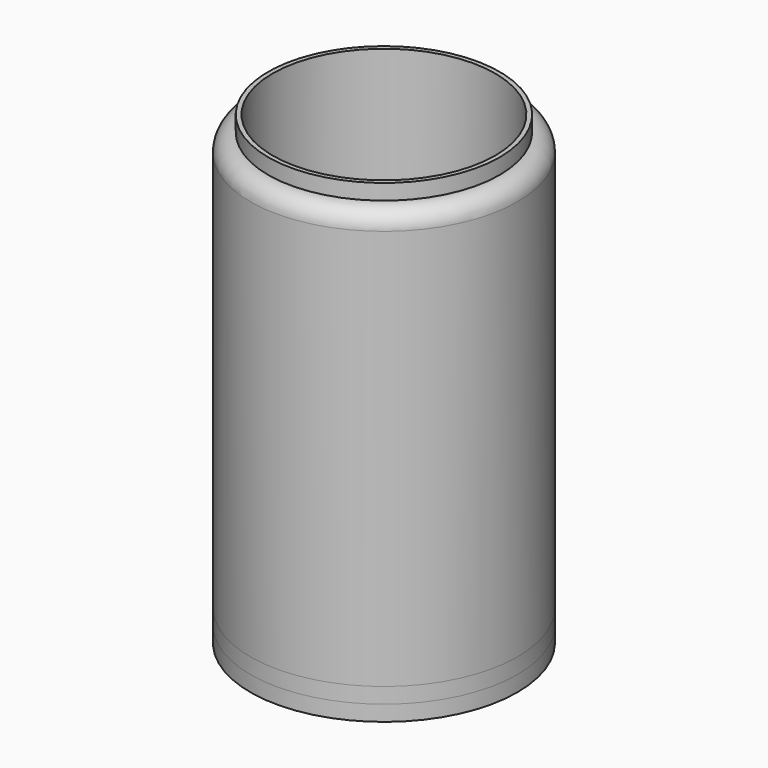
from build123d import *

# Parameters (mm, degrees)
F0_R         = 38.1
F0_R_2       = 31.75
F1_DEPTH     = 123.825
F2_R         = 5.08
F3_R         = 38.1
F3_R_2       = 31.75
F1_FACE_R    = 38.1
F1_FACE_R_2  = 31.75
F1_FACE1_R   = 33.02
F1_FACE1_R_2 = 31.75
F4_DEPTH     = 4.445


with BuildPart() as f1:
    # F0 (on Top) → F1 (new body)
    with BuildSketch(Plane.XY):
        Circle(F0_R)
        Circle(F0_R_2, mode=Mode.SUBTRACT)
    extrude(amount=F1_DEPTH)

    # F2
    f2_edges = [f1.edges().sort_by_distance(p)[0] for p in [
        (-38.1, 0, 123.825),
    ]]
    fillet(f2_edges, radius=F2_R)

    # F3 (on face) + F1_face (on face) + F0 (on Top) + F1_face1 (on face) → F4 (join, symmetric)
    with BuildSketch(Plane.XY):
        Circle(F3_R)
        Circle(F3_R_2, mode=Mode.SUBTRACT)
        Circle(F3_R_2)
    with BuildSketch(Plane(origin=(0, 0, 0), x_dir=(1, 0, 0), z_dir=(0, 0, -1))):
        Circle(F1_FACE_R)
        Circle(F1_FACE_R_2, mode=Mode.SUBTRACT)
    with BuildSketch(Plane.XY):
        Circle(F0_R)
        Circle(F0_R_2, mode=Mode.SUBTRACT)
    with BuildSketch(Plane.XY.offset(123.825)):
        Circle(F1_FACE1_R)
        Circle(F1_FACE1_R_2, mode=Mode.SUBTRACT)
    extrude(amount=F4_DEPTH, both=True, dir=(0, 0, 1))


solid = f1.part
